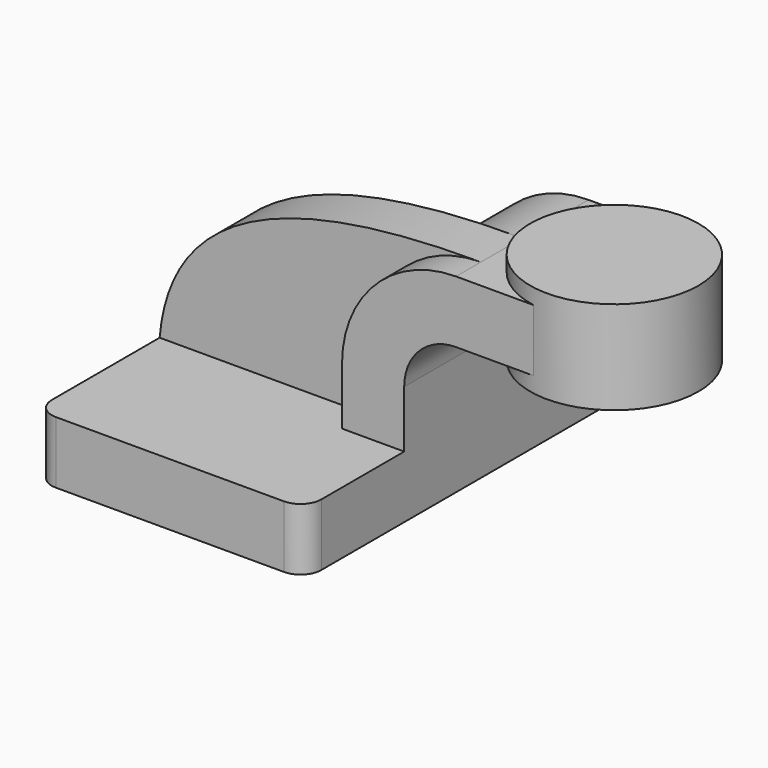
from build123d import *

# Parameters (mm, degrees)
F1_DEPTH = 63.5
F0_W     = 25.0189637039
F0_H     = 19.05
F2_DEPTH = 25.4
F3_DEPTH = 15.875
F5_R     = 6.35


with BuildPart() as f1:
    # F0 (on Front) → F1 (new body, symmetric)
    with BuildSketch(Plane.XZ):
        Polygon((22.225, 9.525), (-41.275, 9.525), (-41.275, -9.525), (41.275, -9.525), (41.275, 9.525), align=None)
    extrude(amount=F1_DEPTH, both=True)

    # F0 (on Front) → F2 (join, symmetric)
    with BuildSketch(Plane.XZ):
        with BuildLine():
            Line((22.225, 27.0002), (22.225, 9.525))
            Line((22.225, 9.525), (41.275, 9.525))
            Line((41.275, 9.525), (41.275, 27.0002))
            ThreePointArc((41.275, 27.0002), (45.9246798487, 38.2255201513), (57.15, 42.8752))
            Line((57.15, 42.8752), (60.325, 42.8752))
            Line((60.325, 42.8752), (60.325, 61.9252))
            Line((60.325, 61.9252), (57.15, 61.9252))
            ThreePointArc((57.15, 61.9252), (32.4542956671, 51.6959043329), (22.225, 27.0002))
        make_face()
        with Locations((72.8344818519, 52.4002)):
            Rectangle(F0_W, F0_H)
    extrude(amount=F2_DEPTH, both=True)

    # F0 (on Front) → F3 (join)
    with BuildSketch(Plane.XZ):
        with BuildLine():
            add(Edge.make_bspline(
                [(57.15, 61.9252), (-3.7140410859, 62.1167458594), (-38.0423441529, 46.5129725635), (-41.275, 9.525)],
                knots=[0, 0, 0, 0, 111.5045361635, 111.5045361635, 111.5045361635, 111.5045361635], degree=3))
            Line((-41.275, 9.525), (22.225, 9.525))
            Line((22.225, 9.525), (22.225, 27.0002))
            ThreePointArc((22.225, 27.0002), (32.4542956671, 51.6959043329), (57.15, 61.9252))
        make_face()
    extrude(amount=F3_DEPTH)

    # F0 (on Front) → F4 (revolve)
    with BuildSketch(Plane.XZ):
        Polygon((85.3439637039, 66.675), (85.3439637039, 61.9252), (85.3439637039, 42.8752), (85.3439637039, 38.1), (111.125, 38.1), (111.125, 66.675), align=None)
    revolve(axis=Axis((85.3439637039, 0, 52.3875), (0, 0, -1)))

    # F5
    f5_edges = [f1.edges().sort_by_distance(p)[0] for p in [
        (-41.275, 63.5, 0),
        (41.275, 63.5, 0),
        (41.275, -63.5, 0),
        (-41.275, -63.5, 0),
    ]]
    fillet(f5_edges, radius=F5_R)


solid = f1.part
